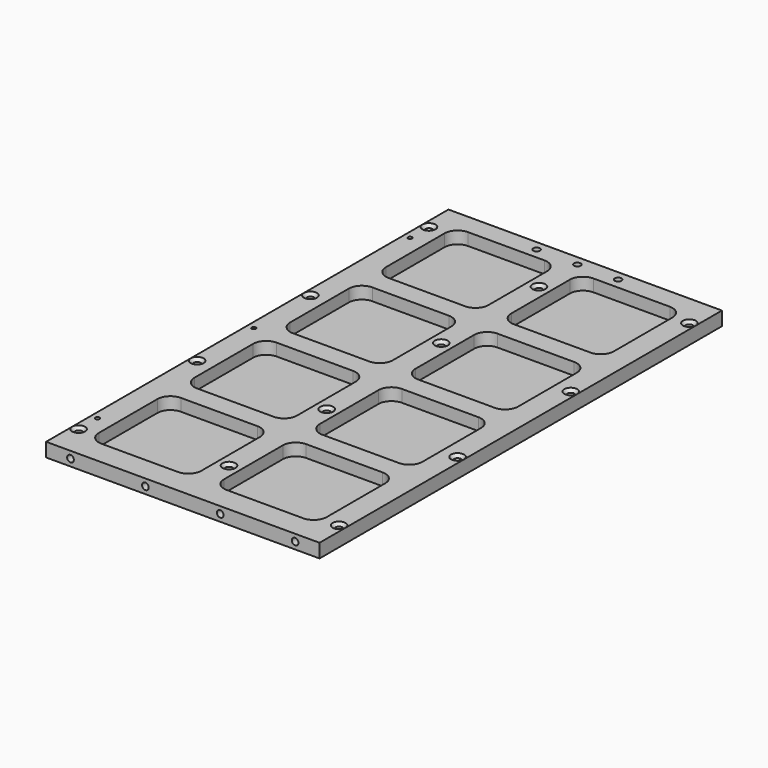
from build123d import *

# Parameters (mm, degrees)
SKETCH_W            = 168
SKETCH_H            = 309
PAD_DEPTH           = 8.5
POCKET_DEPTH        = 7.5
HOLE_D              = 4.4
HOLE_DEPTH          = 25
HOLE_CSINK_D        = 8
HOLE_CSINK_ANGLE    = 90
HOLE001_D           = 4.4
HOLE001_DEPTH       = 25
HOLE001_CSINK_D     = 8
HOLE001_CSINK_ANGLE = 90
SKETCH003_R         = 2.05
HOLE002_DEPTH       = 10.768236
HOLE002_TIPS_R      = 2.05
SKETCH005_R         = 2.05
HOLE003_DEPTH       = 8.501
SKETCH006_R         = 1.25
HOLE004_DEPTH       = 25


with BuildPart() as part:
    # Sketch → Pad (new body)
    with BuildSketch(Plane.XY):
        Rectangle(SKETCH_W, SKETCH_H)
    extrude(amount=-PAD_DEPTH)

    # Sketch001 → Pocket (cut)
    with BuildSketch(Plane.XY):
        with BuildLine():
            Line((-62, -78.5), (-15, -78.5))
            ThreePointArc((-7, -86.5), (-9.343146, -80.843146), (-15, -78.5))
            Line((-7, -86.5), (-7, -131.5))
            ThreePointArc((-15, -139.5), (-9.343146, -137.156854), (-7, -131.5))
            Line((-15, -139.5), (-62, -139.5))
            ThreePointArc((-70, -131.5), (-67.656854, -137.156854), (-62, -139.5))
            Line((-70, -131.5), (-70, -86.5))
            ThreePointArc((-62, -78.5), (-67.656854, -80.843146), (-70, -86.5))
        make_face()
        with BuildLine():
            Line((15, -78.5), (62, -78.5))
            ThreePointArc((70, -86.5), (67.656854, -80.843146), (62, -78.5))
            Line((70, -86.5), (70, -131.5))
            ThreePointArc((62, -139.5), (67.656854, -137.156854), (70, -131.5))
            Line((62, -139.5), (15, -139.5))
            ThreePointArc((7, -131.5), (9.343146, -137.156854), (15, -139.5))
            Line((7, -131.5), (7, -86.5))
            ThreePointArc((15, -78.5), (9.343146, -80.843146), (7, -86.5))
        make_face()
        with BuildLine():
            Line((-62, -5), (-15, -5))
            ThreePointArc((-7, -13), (-9.343146, -7.343146), (-15, -5))
            Line((-7, -13), (-7, -58))
            ThreePointArc((-15, -66), (-9.343146, -63.656854), (-7, -58))
            Line((-15, -66), (-62, -66))
            ThreePointArc((-70, -58), (-67.656854, -63.656854), (-62, -66))
            Line((-70, -58), (-70, -13))
            ThreePointArc((-62, -5), (-67.656854, -7.343146), (-70, -13))
        make_face()
        with BuildLine():
            Line((15, -5), (62, -5))
            ThreePointArc((70, -13), (67.656854, -7.343146), (62, -5))
            Line((70, -13), (70, -58))
            ThreePointArc((62, -66), (67.656854, -63.656854), (70, -58))
            Line((62, -66), (15, -66))
            ThreePointArc((7, -58), (9.343146, -63.656854), (15, -66))
            Line((7, -58), (7, -13))
            ThreePointArc((15, -5), (9.343146, -7.343146), (7, -13))
        make_face()
        with BuildLine():
            Line((-62, 68.5), (-15, 68.5))
            ThreePointArc((-7, 60.5), (-9.343146, 66.156854), (-15, 68.5))
            Line((-7, 60.5), (-7, 15.5))
            ThreePointArc((-15, 7.5), (-9.343146, 9.843146), (-7, 15.5))
            Line((-15, 7.5), (-62, 7.5))
            ThreePointArc((-70, 15.5), (-67.656854, 9.843146), (-62, 7.5))
            Line((-70, 15.5), (-70, 60.5))
            ThreePointArc((-62, 68.5), (-67.656854, 66.156854), (-70, 60.5))
        make_face()
        with BuildLine():
            Line((15, 68.5), (62, 68.5))
            ThreePointArc((70, 60.5), (67.656854, 66.156854), (62, 68.5))
            Line((70, 60.5), (70, 15.5))
            ThreePointArc((62, 7.5), (67.656854, 9.843146), (70, 15.5))
            Line((62, 7.5), (15, 7.5))
            ThreePointArc((7, 15.5), (9.343146, 9.843146), (15, 7.5))
            Line((7, 15.5), (7, 60.5))
            ThreePointArc((15, 68.5), (9.343146, 66.156854), (7, 60.5))
        make_face()
        with BuildLine():
            Line((-62, 142), (-15, 142))
            ThreePointArc((-7, 134), (-9.343146, 139.656854), (-15, 142))
            Line((-7, 134), (-7, 89))
            ThreePointArc((-15, 81), (-9.343146, 83.343146), (-7, 89))
            Line((-15, 81), (-62, 81))
            ThreePointArc((-70, 89), (-67.656854, 83.343146), (-62, 81))
            Line((-70, 89), (-70, 134))
            ThreePointArc((-62, 142), (-67.656854, 139.656854), (-70, 134))
        make_face()
        with BuildLine():
            Line((15, 142), (62, 142))
            ThreePointArc((70, 134), (67.656854, 139.656854), (62, 142))
            Line((70, 134), (70, 89))
            ThreePointArc((62, 81), (67.656854, 83.343146), (70, 89))
            Line((62, 81), (15, 81))
            ThreePointArc((7, 89), (9.343146, 83.343146), (15, 81))
            Line((7, 89), (7, 134))
            ThreePointArc((15, 142), (9.343146, 139.656854), (7, 134))
        make_face()
    extrude(amount=-POCKET_DEPTH, mode=Mode.SUBTRACT)

    # Hole
    with Locations(Plane.XY):
        with Locations((80, 134.5), (80, 43.5), (80, -43.5), (80, -134.5)):
            hole = CounterSinkHole(HOLE_D / 2, HOLE_CSINK_D / 2, depth=HOLE_DEPTH, counter_sink_angle=HOLE_CSINK_ANGLE)

    # Mirrored: Hole across Sketch002 V_Axis
    add(hole.mirror(Plane(origin=(0, 0, 0), x_dir=(0, 0, 1), z_dir=(1, 0, 0))), mode=Mode.SUBTRACT)

    # Hole001
    with Locations(Plane.XY):
        with Locations((0, 119), (0, 44), (0, -44), (0, -119)):
            CounterSinkHole(HOLE001_D / 2, HOLE001_CSINK_D / 2, depth=HOLE001_DEPTH, counter_sink_angle=HOLE001_CSINK_ANGLE)

    # Sketch003 (on DatumPlane) → Hole002 (cut)
    with BuildSketch(Plane.XZ.offset(154.5)):
        with Locations((-69, -4.25)):
            Circle(SKETCH003_R)
        with Locations((-23, -4.25)):
            Circle(SKETCH003_R)
        with Locations((23, -4.25)):
            Circle(SKETCH003_R)
        with Locations((69, -4.25)):
            Circle(SKETCH003_R)
    extrude(amount=-HOLE002_DEPTH, mode=Mode.SUBTRACT)

    # Hole002 tips → Hole002 tip 1 section 0
    with BuildSketch(Plane.XZ.offset(143.731764), mode=Mode.PRIVATE) as hole002_tip_1_s0:
        with Locations((-69, -4.25)):
            Circle(HOLE002_TIPS_R)
    loft([hole002_tip_1_s0.sketch, Vertex(-69, -142.5, -4.25)], mode=Mode.SUBTRACT)

    # Hole002 tips → Hole002 tip 2 section 0
    with BuildSketch(Plane.XZ.offset(143.731764), mode=Mode.PRIVATE) as hole002_tip_2_s0:
        with Locations((-23, -4.25)):
            Circle(HOLE002_TIPS_R)
    loft([hole002_tip_2_s0.sketch, Vertex(-23, -142.5, -4.25)], mode=Mode.SUBTRACT)

    # Hole002 tips → Hole002 tip 3 section 0
    with BuildSketch(Plane.XZ.offset(143.731764), mode=Mode.PRIVATE) as hole002_tip_3_s0:
        with Locations((23, -4.25)):
            Circle(HOLE002_TIPS_R)
    loft([hole002_tip_3_s0.sketch, Vertex(23, -142.5, -4.25)], mode=Mode.SUBTRACT)

    # Hole002 tips → Hole002 tip 4 section 0
    with BuildSketch(Plane.XZ.offset(143.731764), mode=Mode.PRIVATE) as hole002_tip_4_s0:
        with Locations((69, -4.25)):
            Circle(HOLE002_TIPS_R)
    loft([hole002_tip_4_s0.sketch, Vertex(69, -142.5, -4.25)], mode=Mode.SUBTRACT)

    # Sketch005 → Hole003 (cut, through all)
    with BuildSketch(Plane.XY):
        with Locations((25, 148.5)):
            Circle(SKETCH005_R)
        with Locations((0, 148.5)):
            Circle(SKETCH005_R)
        with Locations((-25, 148.5)):
            Circle(SKETCH005_R)
    extrude(amount=-HOLE003_DEPTH, mode=Mode.SUBTRACT)

    # Sketch006 → Hole004 (cut)
    with BuildSketch(Plane.XY):
        with Locations((-80, 120)):
            Circle(SKETCH006_R)
        with Locations((-80, 0)):
            Circle(SKETCH006_R)
        with Locations((-80, -120)):
            Circle(SKETCH006_R)
    extrude(amount=-HOLE004_DEPTH, mode=Mode.SUBTRACT)


solid = part.part
